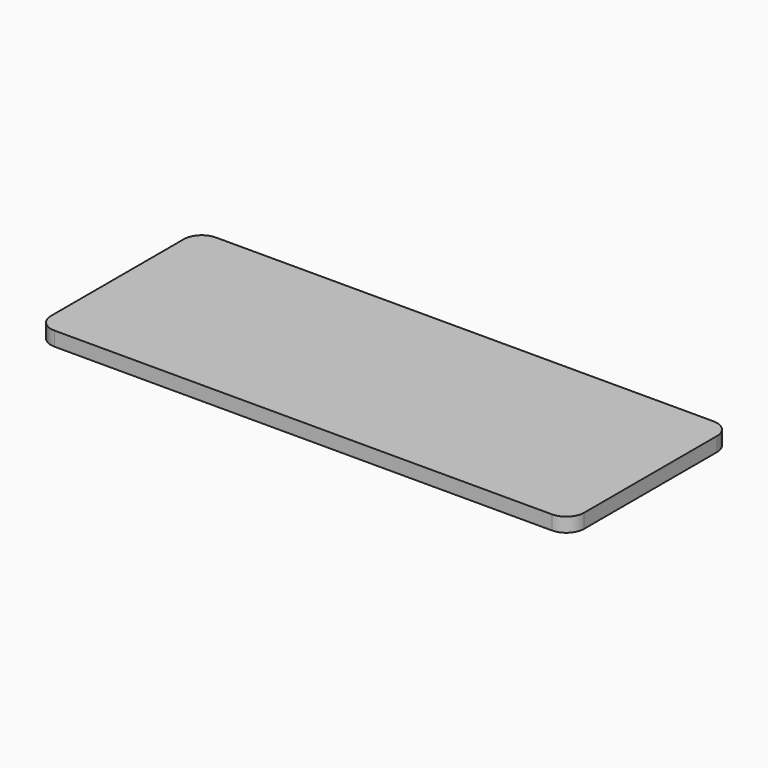
from build123d import *

# Parameters (mm, degrees)
PAD_DEPTH = 1.6


with BuildPart() as part:
    # Sketch → Pad (new body)
    with BuildSketch(Plane.XY):
        with BuildLine():
            Line((-30, 9.35), (-30, -9.35))
            ThreePointArc((-30, -9.35), (-29.414214, -10.764214), (-28, -11.35))
            Line((-28, -11.35), (28, -11.35))
            ThreePointArc((28, -11.35), (29.414214, -10.764214), (30, -9.35))
            Line((30, -9.35), (30, 9.35))
            ThreePointArc((30, 9.35), (29.414214, 10.764214), (28, 11.35))
            Line((28, 11.35), (-28, 11.35))
            ThreePointArc((-28, 11.35), (-29.414214, 10.764214), (-30, 9.35))
        make_face()
    extrude(amount=PAD_DEPTH)


solid = part.part
